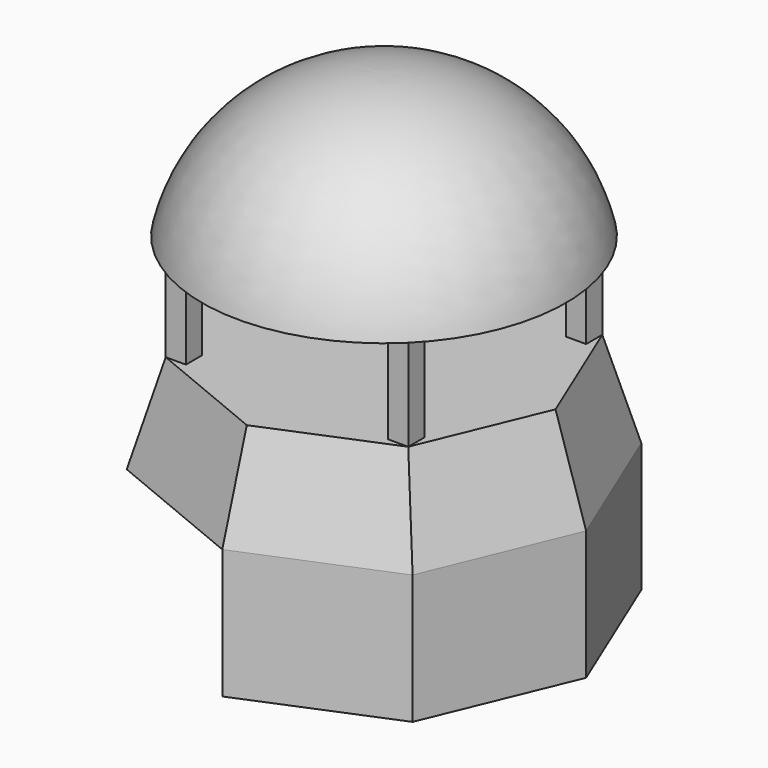
from build123d import *

# Parameters (mm, degrees)
F2_DEPTH = 40.64
F7_W     = 6.35
F7_H     = 6.35
F8_DEPTH = 30.48


with BuildPart() as f2:
    # F1 (on Top) → F2 (new body)
    with BuildSketch(Plane.XY):
        Polygon((44.901281, 44.901281), (0, 63.5), (0, -63.5), (44.901281, -44.901281), (63.5, 0), align=None)
    extrude(amount=F2_DEPTH)

    # F3 (on offset) → F6 section 0
    with BuildSketch(Plane.XY.offset(40.64)):
        Polygon((0, -63.5), (44.901281, -44.901281), (63.5, 0), (44.901281, 44.901281), (0, 63.5), (-44.901281, 44.901281), (-63.5, 0), (-44.901281, -44.901281), align=None)
    # F5 (on offset) → F6 section 1
    with BuildSketch(Plane.XY.offset(71.12)):
        Polygon((0, 53.881537), (-38.1, 38.1), (-53.881537, 0), (-38.1, -38.1), (0, -53.881537), (38.1, -38.1), (53.881537, 0), (38.1, 38.1), align=None)
    loft()

    # F7 (on offset) → F8 (join)
    with BuildSketch(Plane.XY.offset(71.12)):
        with Locations((-34.925, 34.925)):
            Rectangle(F7_W, F7_H)
        with Locations((34.925, 34.925)):
            Rectangle(F7_W, F7_H)
        with Locations((34.925, -34.925)):
            Rectangle(F7_W, F7_H)
        with Locations((-34.925, -34.925)):
            Rectangle(F7_W, F7_H)
    extrude(amount=F8_DEPTH)

    # F12 (on Front) → F13 (revolve)
    with BuildSketch(Plane.XZ):
        with BuildLine():
            ThreePointArc((0, 146.05), (-36.511636, 134.029246), (-57.15, 101.6))
            Line((-57.15, 101.6), (0, 101.6))
            Line((0, 101.6), (0, 146.05))
        make_face()
    revolve(axis=Axis((0, 0, 123.825), (0, 0, 1)))


solid = f2.part
